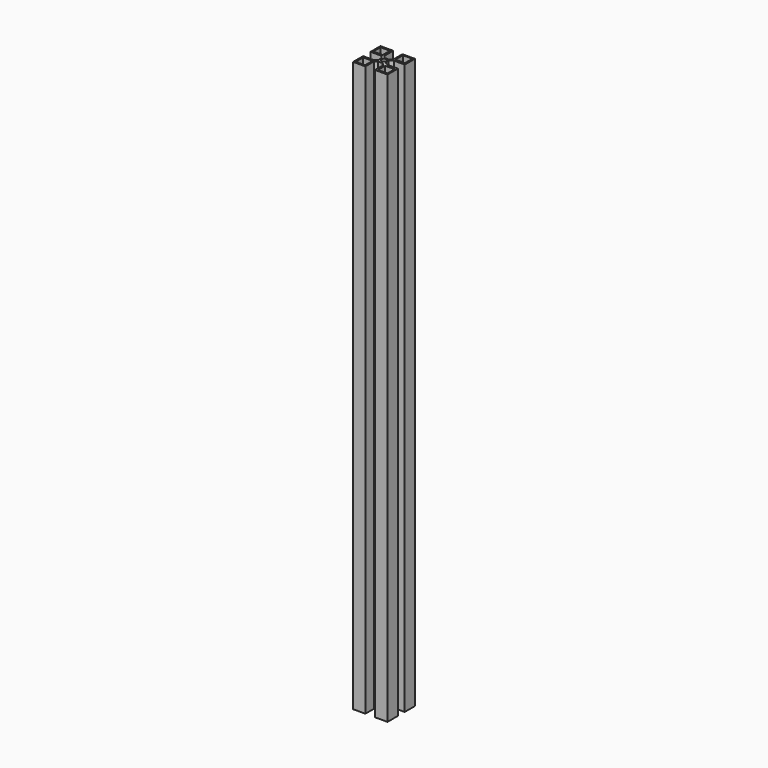
from build123d import *

# Parameters (mm, degrees)
SKETCH_W      = 30.196043
SKETCH_H      = 30.018427
PAD_DEPTH     = 500
SKETCH001_R   = 2.124228
SKETCH001_W   = 8.189246
SKETCH001_H   = 8.189245
SKETCH001_W_2 = 8.203447
SKETCH001_H_2 = 7.852266
SKETCH001_W_3 = 8.321901
SKETCH001_H_3 = 8.144941
SKETCH001_W_4 = 8.345211
SKETCH001_H_4 = 8.02151
POCKET_DEPTH  = 500


with BuildPart() as part:
    # Sketch → Pad (new body)
    with BuildSketch(Plane.XY):
        with Locations((15.098021, 15.009213)):
            Rectangle(SKETCH_W, SKETCH_H)
    extrude(amount=PAD_DEPTH)

    # Sketch001 → Pocket (cut)
    with BuildSketch(Plane.XY.offset(500)):
        with Locations((14.887853, 15.18749)):
            Circle(SKETCH001_R)
        with Locations((5.35938, 5.342074)):
            Rectangle(SKETCH001_W, SKETCH001_H)
        with Locations((24.923182, 5.242986)):
            Rectangle(SKETCH001_W_2, SKETCH001_H_2)
        with Locations((24.643347, 24.908541)):
            Rectangle(SKETCH001_W_3, SKETCH001_H_3)
        with Locations((5.274876, 24.623256)):
            Rectangle(SKETCH001_W_4, SKETCH001_H_4)
        Polygon((19.170053, 9.228496), (19.170053, -1.667364), (10.77261, -1.667364), (10.77261, 9.228496), (12.854619, 11.102304), (17.088041, 11.102304), align=None)
        Polygon((32.078522, 11.310507), (20.835663, 11.310507), (17.990246, 13.253717), (17.990246, 16.584934), (20.835663, 18.875151), (32.078522, 18.875151), align=None)
        Polygon((11.189011, 31.922419), (19.239456, 31.922419), (19.239456, 20.401957), (16.46344, 18.042343), (13.20162, 18.042343), (11.189011, 20.401957), align=None)
        Polygon((-4.773074, 19.15275), (9.6622, 19.15275), (11.813614, 16.654335), (11.813614, 13.045515), (9.6622, 10.963505), (-4.773074, 10.963505), align=None)
    extrude(amount=-POCKET_DEPTH, mode=Mode.SUBTRACT)


solid = part.part
